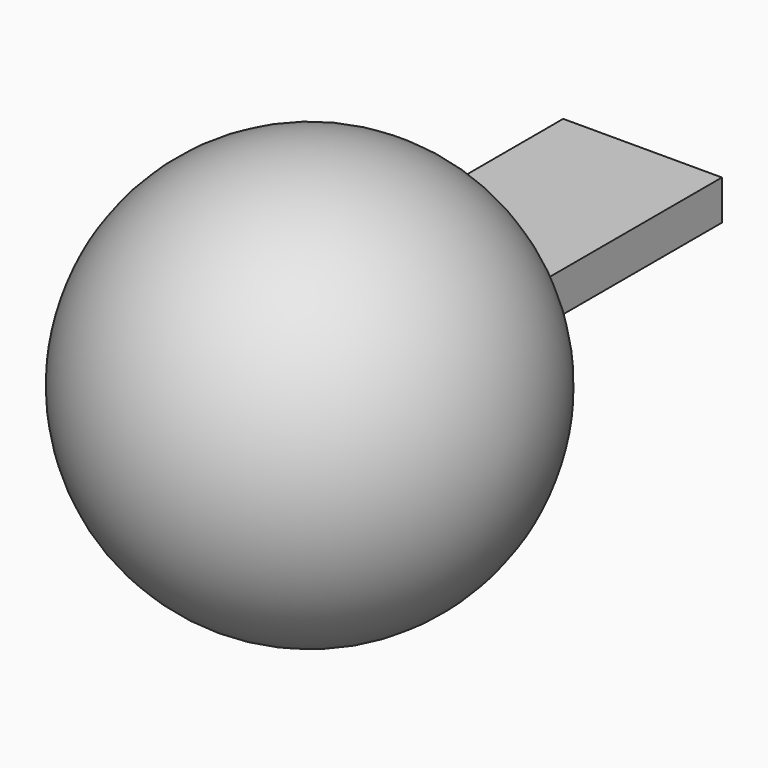
from build123d import *

# Parameters (mm, degrees)
F3_DEPTH = 3.81
F4_W     = 15.193322
F4_H     = 3.81
F5_DEPTH = 50.8


with BuildPart() as f1:
    # F0 (on Front) → F1 (revolve)
    with BuildSketch(Plane.XZ):
        with BuildLine():
            ThreePointArc((-19.728339, 0), (0, -19.728339), (19.728339, 0))
            Line((19.728339, 0), (-19.728339, 0))
        make_face()
    revolve(axis=Axis((0, 0, 0), (-1, 0, 0)))

    # F2 (on Top) → F3 (join)
    with BuildSketch(Plane.XY):
        with BuildLine():
            Line((-7.596661, 39.821211), (-7.596661, 18.991655))
            ThreePointArc((-7.596661, 18.991655), (-0.00587, 19.47811), (7.596661, 19.236708))
            Line((7.596661, 19.236708), (7.596661, 39.821211))
            Line((7.596661, 39.821211), (-7.596661, 39.821211))
        make_face()
    extrude(amount=F3_DEPTH)

    # F4 (on face) → F5 (join)
    with BuildSketch(Plane(origin=(0, 39.821211, 0), x_dir=(-1, 0, 0), z_dir=(0, 1, 0))):
        with Locations((0, 1.905)):
            Rectangle(F4_W, F4_H)
    extrude(amount=-F5_DEPTH)


solid = f1.part
